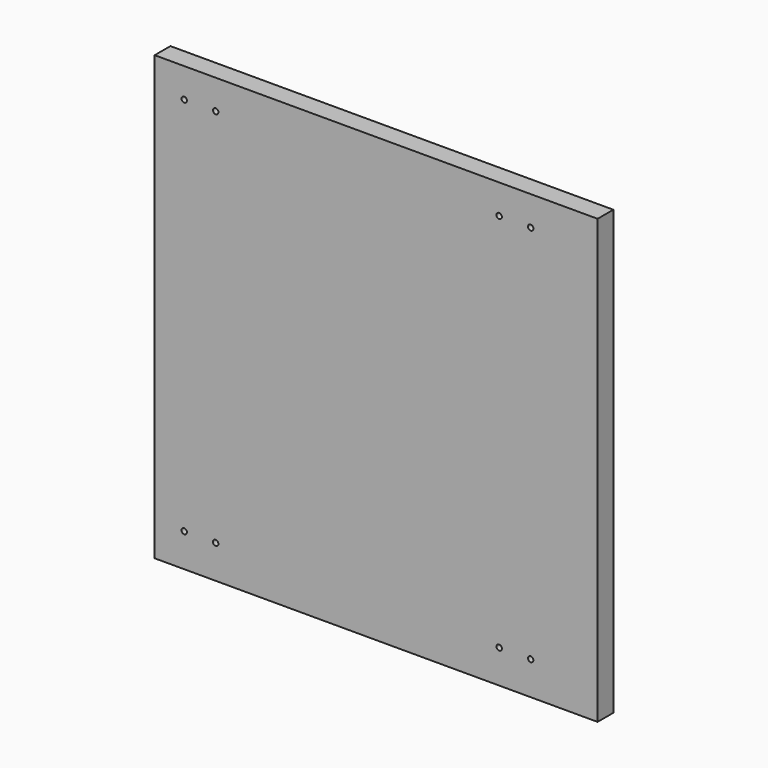
from build123d import *

# Parameters (mm, degrees)
F0_W     = 450
F0_H     = 450
F0_R     = 2.75
F1_DEPTH = 20


with BuildPart() as f1:
    # F0 (on Front) → F1 (new body)
    with BuildSketch(Plane.XZ):
        Rectangle(F0_W, F0_H)
        with Locations((-195, -191)):
            Circle(F0_R, mode=Mode.SUBTRACT)
        with Locations((-163, -191)):
            Circle(F0_R, mode=Mode.SUBTRACT)
        with Locations((125, -191)):
            Circle(F0_R, mode=Mode.SUBTRACT)
        with Locations((157, -191)):
            Circle(F0_R, mode=Mode.SUBTRACT)
        with Locations((-195, 195)):
            Circle(F0_R, mode=Mode.SUBTRACT)
        with Locations((-163, 195)):
            Circle(F0_R, mode=Mode.SUBTRACT)
        with Locations((125, 195)):
            Circle(F0_R, mode=Mode.SUBTRACT)
        with Locations((157, 195)):
            Circle(F0_R, mode=Mode.SUBTRACT)
    extrude(amount=F1_DEPTH)


solid = f1.part
